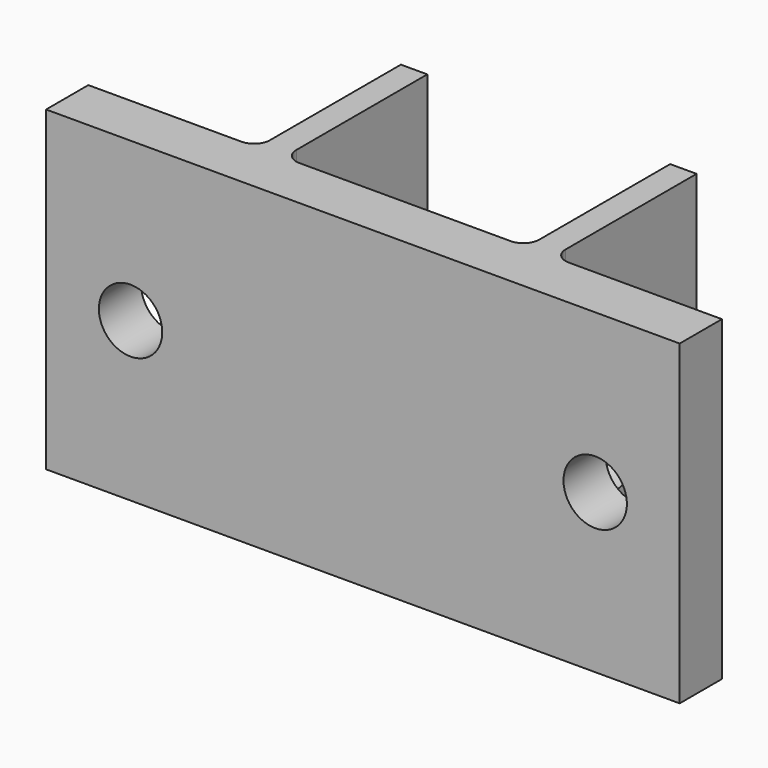
from build123d import *

# Parameters (mm, degrees)
F1_DEPTH      = 30
F1_DEPTH_BACK = 30
F2_R          = 6
F3_DEPTH      = 10.001
F4_R          = 3
F5_W          = 8
F5_H          = 30
F6_DEPTH      = 100
F7_R          = 2


with BuildPart() as f1:
    # F0 (on Top) → F1 (new body, two sides)
    with BuildSketch(Plane.XY) as f1_sk:
        Polygon((-60, 10), (-60, 0), (60, 0), (60, 10), (28, 10), (28, 44), (23, 44), (23, 10), (-23, 10), (-23, 44), (-28, 44), (-28, 10), align=None)
    extrude(amount=F1_DEPTH)
    extrude(f1_sk.sketch, amount=-F1_DEPTH_BACK)

    # F2 (on face) → F3 (cut, through all)
    with BuildSketch(Plane(origin=(0, 10, 0), x_dir=(-1, 0, 0), z_dir=(0, 1, 0))):
        with Locations((44, 0)):
            Circle(F2_R)
        with Locations((-44, 0)):
            Circle(F2_R)
    extrude(amount=-F3_DEPTH, mode=Mode.SUBTRACT)

    # F4
    f4_edges = [f1.edges().sort_by_distance(p)[0] for p in [
        (28, 10, 0),
        (23, 10, 0),
        (-28, 10, 0),
        (-23, 10, 0),
    ]]
    fillet(f4_edges, radius=F4_R)

    # F5 (on face) → F6 (cut)
    with BuildSketch(Plane.YZ.offset(28)):
        with BuildLine():
            ThreePointArc((24, -15), (39, 0), (24, 15))
            Line((24, 15), (24, -15))
        make_face()
        with Locations((20, 0)):
            Rectangle(F5_W, F5_H)
    extrude(amount=-F6_DEPTH, mode=Mode.SUBTRACT)

    # F7
    f7_edges = [f1.edges().sort_by_distance(p)[0] for p in [
        (25.5, 16, -15),
        (-25.5, 16, -15),
        (25.5, 16, 15),
        (-25.5, 16, 15),
    ]]
    fillet(f7_edges, radius=F7_R)


solid = f1.part
